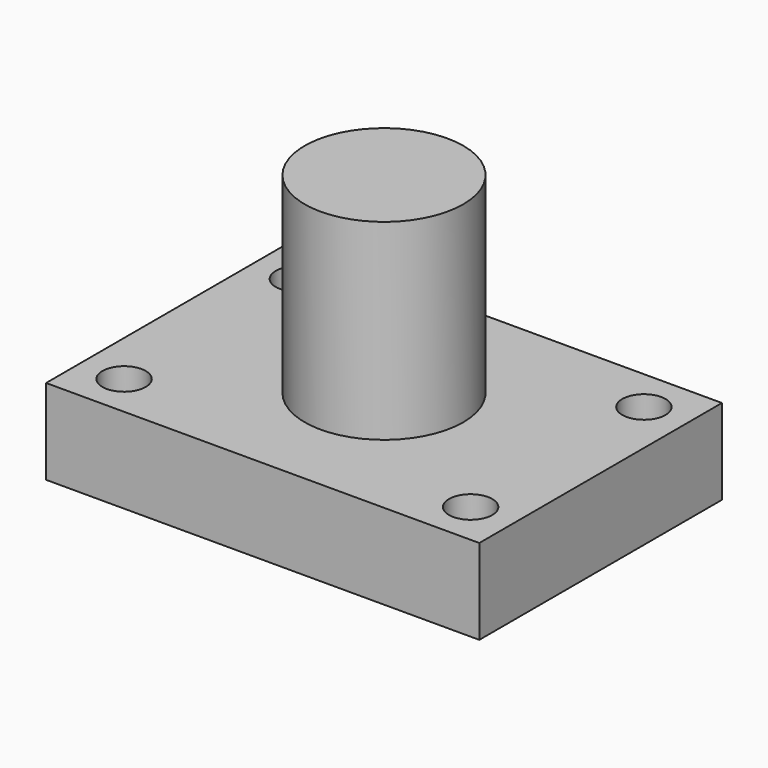
from build123d import *

# Parameters (mm, degrees)
SKETCH_W     = 25.4
SKETCH_H     = 17.78
SKETCH_R     = 1.27
PAD_DEPTH    = 5
SKETCH001_R  = 4.65
PAD001_DEPTH = 11.25


with BuildPart() as part:
    # Sketch → Pad (new body)
    with BuildSketch(Plane.XY):
        Rectangle(SKETCH_W, SKETCH_H)
        with Locations((-10.16, 6.35)):
            Circle(SKETCH_R, mode=Mode.SUBTRACT)
        with Locations((10.16, 6.35)):
            Circle(SKETCH_R, mode=Mode.SUBTRACT)
        with Locations((10.16, -6.35)):
            Circle(SKETCH_R, mode=Mode.SUBTRACT)
        with Locations((-10.16, -6.35)):
            Circle(SKETCH_R, mode=Mode.SUBTRACT)
    extrude(amount=-PAD_DEPTH)

    # Sketch001 → Pad001 (join)
    with BuildSketch(Plane.XY):
        Circle(SKETCH001_R)
    extrude(amount=PAD001_DEPTH)


solid = part.part
